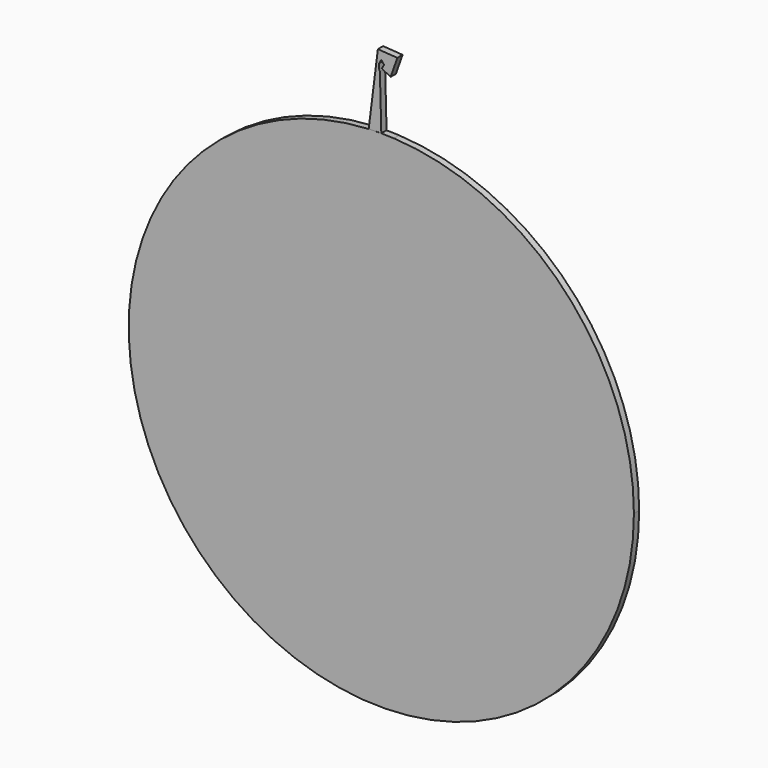
from build123d import *

# Parameters (mm, degrees)
F1_DEPTH = 0.6604


with BuildPart() as f1:
    # F0 (on Front) → F1 (new body)
    with BuildSketch(Plane.XZ):
        with BuildLine():
            Line((-0.345766, 32.740355), (-1.269603, 25.36825))
            ThreePointArc((-1.269603, 25.36825), (-0.635, 25.392061), (0, 25.4))
            Line((0, 25.4), (-0.142427, 30.827465))
            Line((-0.142427, 30.827465), (-0.217738, 30.985618))
            Line((-0.217738, 30.985618), (-0.217738, 31.520322))
            Line((-0.217738, 31.520322), (0, 31.911939))
            Line((0, 31.911939), (0.27527, 31.558935))
            Line((0.27527, 31.558935), (0.060911, 31.1513))
            Line((0.060911, 31.1513), (0.934515, 30.691907))
            Line((0.934515, 30.691907), (1.61231, 32.604795))
            Line((1.61231, 32.604795), (-0.345766, 32.740355))
        make_face()
        with BuildLine():
            ThreePointArc((-1.269603, 25.36825), (-17.505886, -18.403912), (25.4, 0))
            ThreePointArc((25.4, 0), (18.403912, 17.505886), (1.269603, 25.36825))
            Line((1.269603, 25.36825), (0, 25.4))
            Line((0, 25.4), (-1.269603, 25.36825))
        make_face()
    extrude(amount=F1_DEPTH)


solid = f1.part
